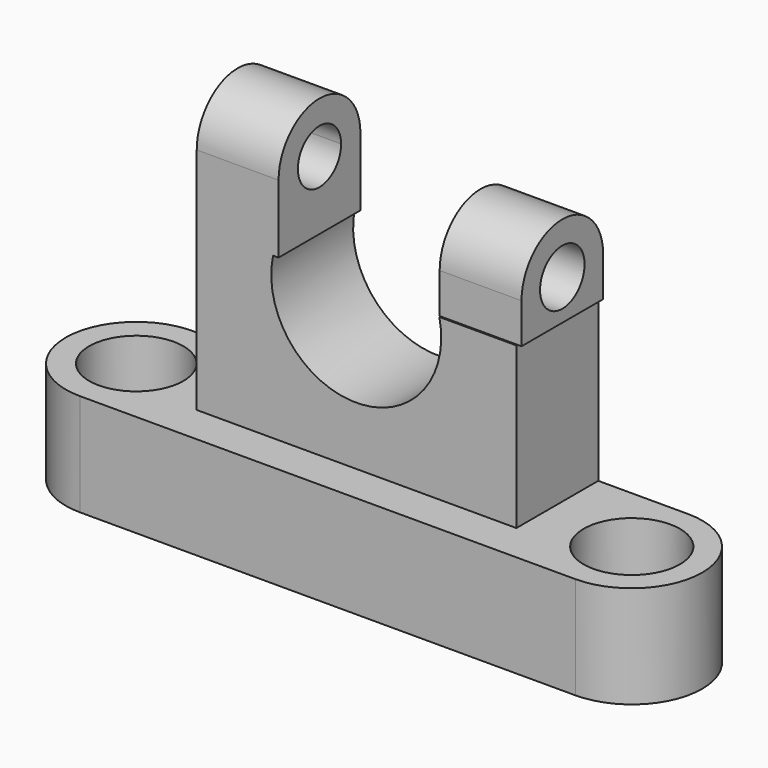
from build123d import *

# Parameters (mm, degrees)
F0_R     = 8.775751
F0_R_2   = 8.96467
F1_DEPTH = 19.05
F3_DEPTH = 19.05
F4_R     = 5.183102
F5_DEPTH = 15.24
F7_DEPTH = 15.24


with BuildPart() as f1:
    # F0 (on Top) → F1 (new body)
    with BuildSketch(Plane.XY):
        with BuildLine():
            Line((31.077219, 0), (-60.848664, 0))
            ThreePointArc((-60.848664, 0), (-74.30708, -12.959056), (-61.179478, -26.253121))
            Line((-61.179478, -26.253121), (31.077219, -26.253121))
            ThreePointArc((31.077219, -26.253121), (44.20378, -13.12656), (31.077219, 0))
        make_face()
        with Locations((-61.179478, -13.12656)):
            Circle(F0_R, mode=Mode.SUBTRACT)
        with Locations((31.077219, -13.12656)):
            Circle(F0_R_2, mode=Mode.SUBTRACT)
        with BuildLine():
            Line((31.077219, 0), (-60.848664, 0))
            ThreePointArc((-60.848664, 0), (-74.30708, -12.959056), (-61.179478, -26.253121))
            Line((-61.179478, -26.253121), (31.077219, -26.253121))
            ThreePointArc((31.077219, -26.253121), (44.20378, -13.12656), (31.077219, 0))
        make_face()
        with Locations((-61.179478, -13.12656)):
            Circle(F0_R, mode=Mode.SUBTRACT)
        with Locations((31.077219, -13.12656)):
            Circle(F0_R_2, mode=Mode.SUBTRACT)
    extrude(amount=F1_DEPTH)

    # F2 (on Front) → F3 (join)
    with BuildSketch(Plane.XZ):
        with BuildLine():
            Line((-45.186371, 48.979893), (-45.186371, 19.020541))
            Line((-45.186371, 19.020541), (14.33914, 19.020541))
            Line((14.33914, 19.020541), (14.33914, 48.979893))
            Line((14.33914, 48.979893), (0, 48.979893))
            ThreePointArc((0, 48.979893), (-15.483864, 29.895664), (-30.967727, 48.979893))
            Line((-30.967727, 48.979893), (-45.186371, 48.979893))
        make_face()
    extrude(amount=F3_DEPTH)

    # F6 (on face) → F7 (join)
    with BuildSketch(Plane(origin=(-45.186371, 0, 0), x_dir=(0, -1, 0), z_dir=(-1, 0, 0))):
        with BuildLine():
            Line((14.554047, 61.679893), (19.05, 61.679893))
            ThreePointArc((19.05, 61.679893), (9.525, 71.204893), (0, 61.679893))
            Line((0, 61.679893), (4.495953, 61.679893))
            ThreePointArc((4.495953, 61.679893), (9.525, 66.708941), (14.554047, 61.679893))
        make_face()
        with BuildLine():
            Line((19.05, 48.979893), (19.05, 61.679893))
            Line((19.05, 61.679893), (14.554047, 61.679893))
            ThreePointArc((14.554047, 61.679893), (9.525, 56.650846), (4.495953, 61.679893))
            Line((4.495953, 61.679893), (0, 61.679893))
            Line((0, 61.679893), (0, 48.979893))
            Line((0, 48.979893), (19.05, 48.979893))
        make_face()
    extrude(amount=-F7_DEPTH)


with BuildPart() as f5:
    # F4 (on Right) → F5 (new body)
    with BuildSketch(Plane.YZ):
        with BuildLine():
            Line((-18.988613, 49.11286), (0, 49.11286))
            Line((0, 49.11286), (0, 56.583673))
            ThreePointArc((0, 56.583673), (-9.494307, 66.077979), (-18.988613, 56.583673))
            Line((-18.988613, 56.583673), (-18.988613, 49.11286))
        make_face()
        with Locations((-9.494307, 56.583673)):
            Circle(F4_R, mode=Mode.SUBTRACT)
    extrude(amount=F5_DEPTH)


solid = Compound([f1.part, f5.part])
